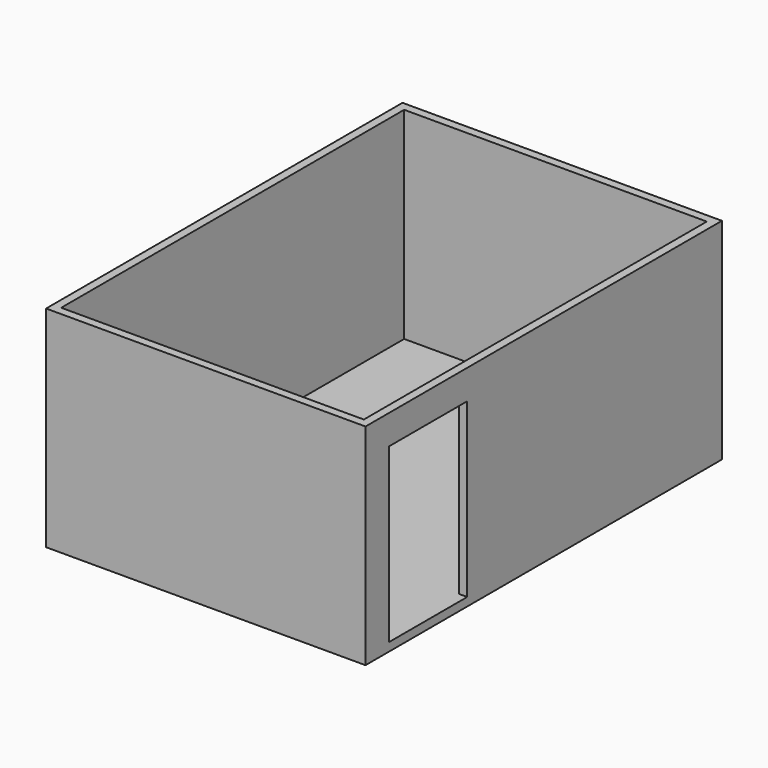
from build123d import *

# Parameters (mm, degrees)
F0_W     = 3860.8
F0_H     = 5384.8
F0_W_2   = 3657.6
F0_H_2   = 5181.6
F1_DEPTH = 2540
F2_W     = 5181.6
F2_H     = 101.6
F3_DEPTH = 3657.6
F4_W     = 1181.1
F4_H     = 2082.8
F5_DEPTH = 101.601


with BuildPart() as f1:
    # F0 (on Top) → F1 (new body)
    with BuildSketch(Plane.XY):
        with Locations((-1054.686203, -1220.920803)):
            Rectangle(F0_W, F0_H)
        with Locations((-1054.686203, -1220.920803)):
            Rectangle(F0_W_2, F0_H_2, mode=Mode.SUBTRACT)
    extrude(amount=F1_DEPTH)

    # F2 (on face) → F3 (join, through all)
    with BuildSketch(Plane(origin=(774.113797, 0, 0), x_dir=(0, -1, 0), z_dir=(-1, 0, 0))):
        with Locations((1220.920803, 50.8)):
            Rectangle(F2_W, F2_H)
    extrude(amount=F3_DEPTH)

    # F4 (on face) → F5 (cut, through all)
    with BuildSketch(Plane(origin=(774.113797, 0, 0), x_dir=(0, -1, 0), z_dir=(-1, 0, 0))):
        with Locations((2967.170803, 1143)):
            Rectangle(F4_W, F4_H)
    extrude(amount=-F5_DEPTH, mode=Mode.SUBTRACT)


solid = f1.part
